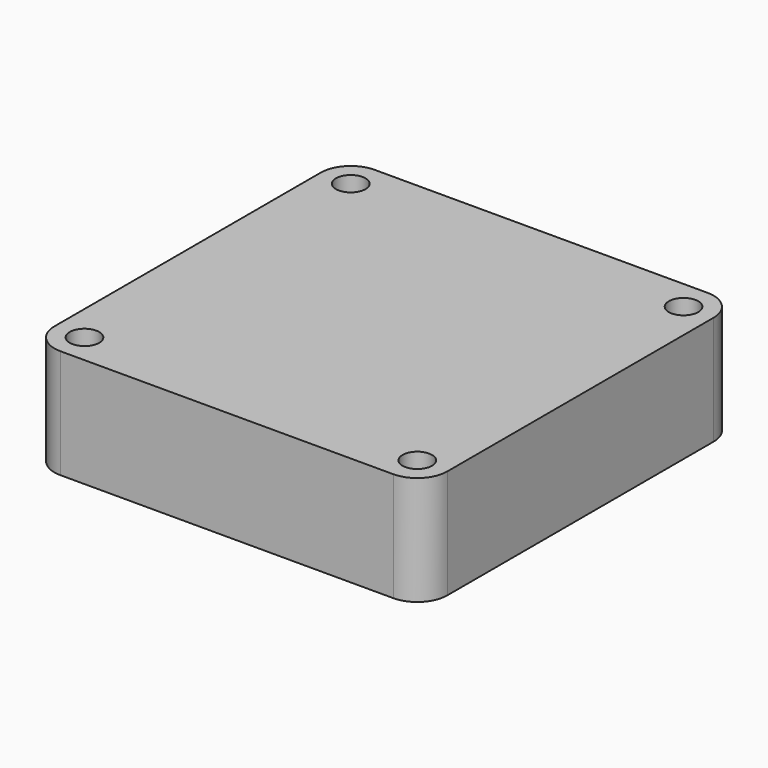
from build123d import *

# Parameters (mm, degrees)
F0_W     = 36
F0_H     = 36
F0_R     = 1.35
F1_DEPTH = 10
F2_R     = 2.75


with BuildPart() as f1:
    # F0 (on Top) → F1 (new body)
    with BuildSketch(Plane.XY):
        Rectangle(F0_W, F0_H)
        with Locations((-15.25, -15.25)):
            Circle(F0_R, mode=Mode.SUBTRACT)
        with Locations((15.25, -15.25)):
            Circle(F0_R, mode=Mode.SUBTRACT)
        with Locations((-15.25, 15.25)):
            Circle(F0_R, mode=Mode.SUBTRACT)
        with Locations((15.25, 15.25)):
            Circle(F0_R, mode=Mode.SUBTRACT)
    extrude(amount=F1_DEPTH)

    # F2
    f2_edges = [f1.edges().sort_by_distance(p)[0] for p in [
        (-18, 18, 5),
        (18, 18, 5),
        (18, -18, 5),
        (-18, -18, 5),
    ]]
    fillet(f2_edges, radius=F2_R)


solid = f1.part
